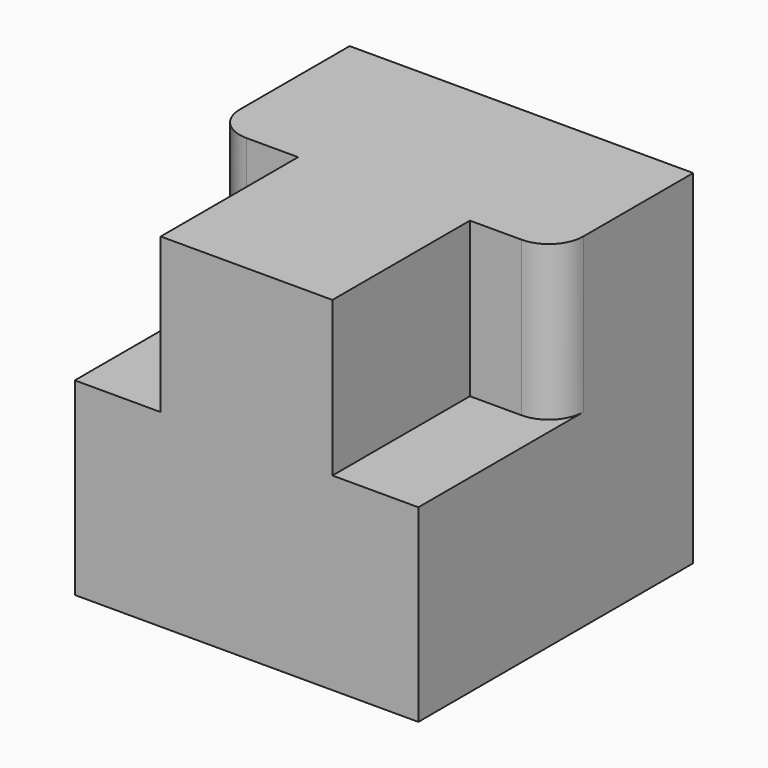
from build123d import *

# Parameters (mm, degrees)
F0_W     = 100
F0_H     = 100
F1_DEPTH = 100
F3_DEPTH = 45


with BuildPart() as f1:
    # F0 (on Right) → F1 (new body)
    with BuildSketch(Plane.YZ):
        with Locations((50, 50)):
            Rectangle(F0_W, F0_H)
    extrude(amount=F1_DEPTH)

    # F2 (on face) → F3 (cut)
    with BuildSketch(Plane.XY.offset(100)):
        with BuildLine():
            ThreePointArc((10, 50), (2.928932, 52.928932), (0, 60))
            Line((0, 60), (0, 0))
            Line((0, 0), (25, 0))
            Line((25, 0), (25, 50))
            Line((25, 50), (10, 50))
        make_face()
        with BuildLine():
            Line((100, 0), (100, 60))
            ThreePointArc((100, 60), (97.071068, 52.928932), (90, 50))
            Line((90, 50), (75, 50))
            Line((75, 50), (75, 0))
            Line((75, 0), (100, 0))
        make_face()
    extrude(amount=-F3_DEPTH, mode=Mode.SUBTRACT)


solid = f1.part
